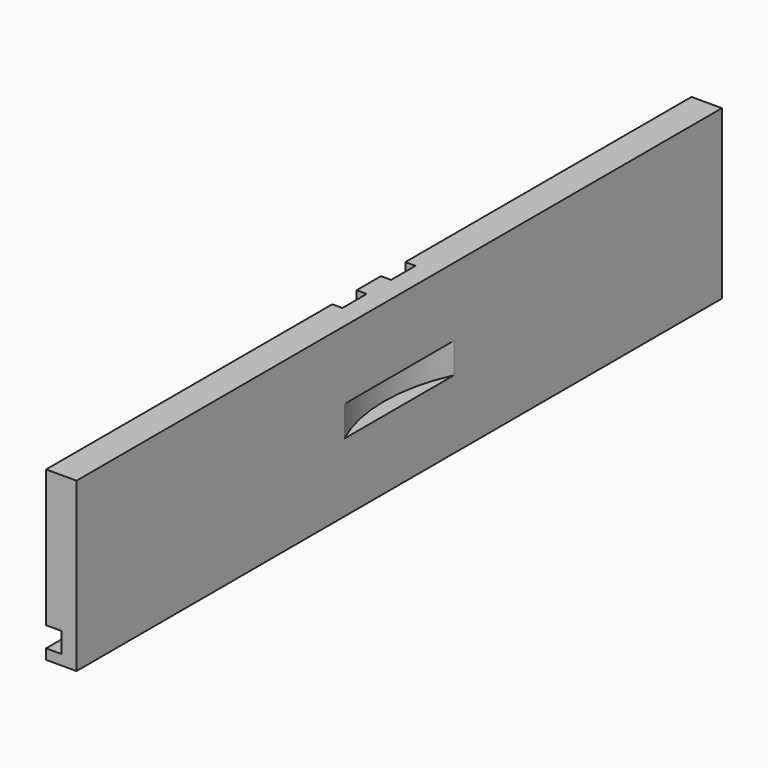
from build123d import *

# Parameters (mm, degrees)
F1_DEPTH = 252.4125
F4_R     = 101.6
F5_DEPTH = 9.525
F6_W     = 19.05
F6_H     = 85.852
F7_DEPTH = 6.35


with BuildPart() as f1:
    # F0 (on Front) → F1 (new body)
    with BuildSketch(Plane.XZ):
        Polygon((9.525, 52.451), (-9.525, 52.451), (-9.525, -33.401), (0, -33.401), (0, -46.101), (-9.525, -46.101), (-9.525, -52.451), (9.525, -52.451), align=None)
    extrude(amount=F1_DEPTH)

    # F3: F1 across plane


with BuildPart() as f1_1:
    add(f1.part)
    add(f1.part.mirror(Plane.XZ))

    # F4 (on Top) → F5 (cut, symmetric)
    with BuildSketch(Plane.XY):
        with Locations((101.6, 0)):
            Circle(F4_R)
    extrude(amount=F5_DEPTH, both=True, mode=Mode.SUBTRACT)

    # F6 (on face) → F7 (cut)
    with BuildSketch(Plane(origin=(-9.525, 0, 0), x_dir=(0, -1, 0), z_dir=(-1, 0, 0))):
        with Locations((-19.05, 9.525)):
            Rectangle(F6_W, F6_H)
        with Locations((19.05, 9.525)):
            Rectangle(F6_W, F6_H)
    extrude(amount=-F7_DEPTH, mode=Mode.SUBTRACT)


solid = f1_1.part
